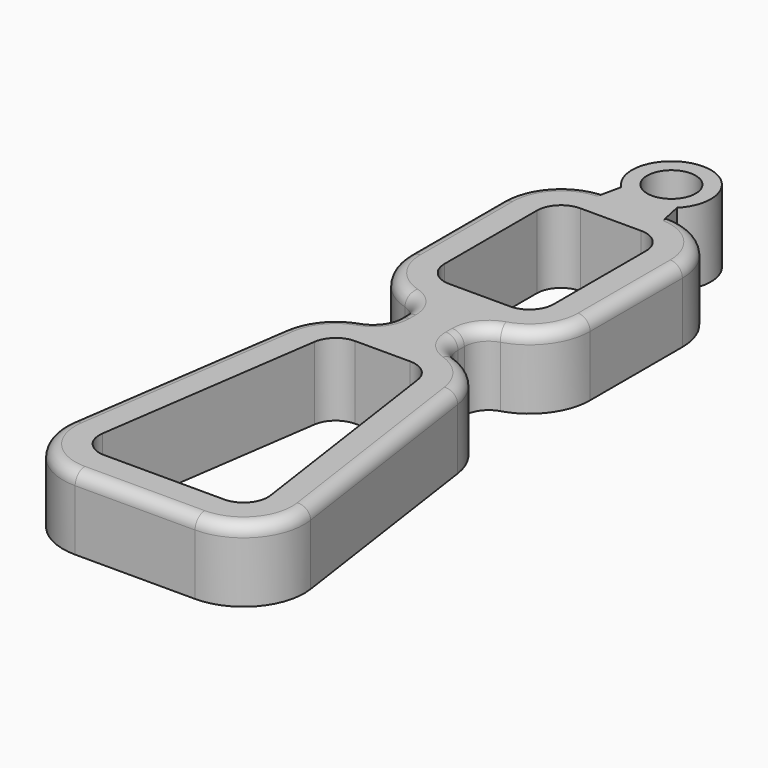
from build123d import *

# Parameters (mm, degrees)
F0_R     = 1
F1_DEPTH = 3
F2_R     = 0.5


with BuildPart() as f1:
    # F0 (on Top) → F1 (new body)
    with BuildSketch(Plane.XY):
        with BuildLine():
            Line((-0.125, 22), (-0.125, 17.25))
            ThreePointArc((-0.125, 17.25), (0.370541, 15.755964), (1.660714, 14.854213))
            ThreePointArc((1.660714, 14.854213), (2.176784, 14.493512), (2.375, 13.895898))
            Line((2.375, 13.895898), (2.375, 13.567332))
            ThreePointArc((2.375, 13.567332), (2.187046, 12.983739), (1.693838, 12.619523))
            ThreePointArc((1.693838, 12.619523), (0.570596, 11.850719), (0.016613, 10.607402))
            Line((0.016613, 10.607402), (-1.319498, 1.357402))
            ThreePointArc((-1.319498, 1.357402), (-0.735085, -0.636535), (1.154823, -1.5))
            Line((1.154823, -1.5), (6.095177, -1.5))
            ThreePointArc((6.095177, -1.5), (7.985085, -0.636535), (8.569498, 1.357402))
            Line((8.569498, 1.357402), (7.233387, 10.607402))
            ThreePointArc((7.233387, 10.607402), (6.679404, 11.850719), (5.556162, 12.619523))
            ThreePointArc((5.556162, 12.619523), (5.062954, 12.983739), (4.875, 13.567332))
            Line((4.875, 13.567332), (4.875, 13.895898))
            ThreePointArc((4.875, 13.895898), (5.073216, 14.493512), (5.589286, 14.854213))
            ThreePointArc((5.589286, 14.854213), (6.879459, 15.755964), (7.375, 17.25))
            Line((7.375, 17.25), (7.375, 22))
            ThreePointArc((7.375, 22), (6.642767, 23.767767), (4.875, 24.5))
            Line((4.875, 24.5), (4.774049, 24.975951))
            ThreePointArc((4.774049, 24.975951), (3.625, 27.75), (2.475951, 24.975951))
            Line((2.475951, 24.975951), (2.375, 24.5))
            ThreePointArc((2.375, 24.5), (0.607233, 23.767767), (-0.125, 22))
        make_face()
        with BuildLine():
            Line((6.095177, 0), (1.154823, 0))
            ThreePointArc((1.154823, 0), (0.398859, 0.345386), (0.165094, 1.142961))
            Line((0.165094, 1.142961), (1.501205, 10.392961))
            ThreePointArc((1.501205, 10.392961), (1.83632, 11.005963), (2.490934, 11.25))
            Line((2.490934, 11.25), (3.625, 11.25))
            Line((3.625, 11.25), (4.759066, 11.25))
            ThreePointArc((4.759066, 11.25), (5.41368, 11.005963), (5.748795, 10.392961))
            Line((5.748795, 10.392961), (7.084906, 1.142961))
            ThreePointArc((7.084906, 1.142961), (6.851141, 0.345386), (6.095177, 0))
        make_face(mode=Mode.SUBTRACT)
        with BuildLine():
            Line((4.875, 16.25), (3.625, 16.25))
            Line((3.625, 16.25), (2.375, 16.25))
            ThreePointArc((2.375, 16.25), (1.667893, 16.542893), (1.375, 17.25))
            Line((1.375, 17.25), (1.375, 22))
            ThreePointArc((1.375, 22), (1.667893, 22.707107), (2.375, 23))
            Line((2.375, 23), (4.875, 23))
            ThreePointArc((4.875, 23), (5.582107, 22.707107), (5.875, 22))
            Line((5.875, 22), (5.875, 17.25))
            ThreePointArc((5.875, 17.25), (5.582107, 16.542893), (4.875, 16.25))
        make_face(mode=Mode.SUBTRACT)
        with Locations((3.625, 26.125)):
            Circle(F0_R, mode=Mode.SUBTRACT)
    extrude(amount=F1_DEPTH)

    # F2
    f2_edges = [f1.edges().sort_by_distance(p)[0] for p in [
        (7.901443, 5.982402, 3),
    ]]
    fillet(f2_edges, radius=F2_R)


solid = f1.part
